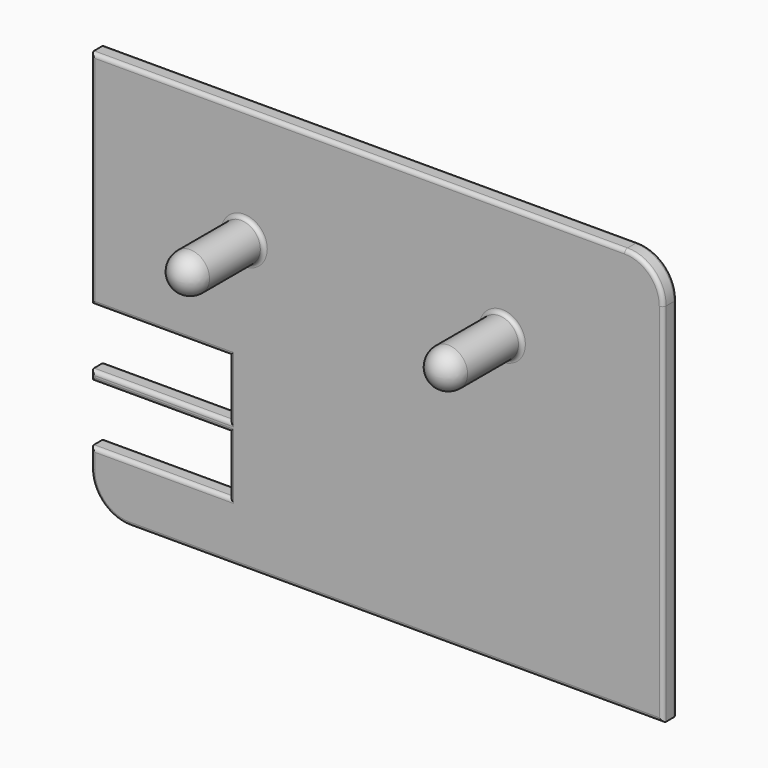
from build123d import *

# Parameters (mm, degrees)
F1_DEPTH = 9
F2_R     = 10
F3_DEPTH = 45
F4_W     = 71.969155259
F4_H     = 30
F5_DEPTH = 25
F6_W     = 71.969155259
F6_H     = 30
F7_DEPTH = 25
F8_R     = 2
F9_R     = 2
F10_R    = 10
F11_R    = 10


with BuildPart() as f1:
    # F0 (on Front) → F1 (new body)
    with BuildSketch(Plane.XZ):
        with BuildLine():
            Line((123.8927025199, 74.8835833272), (-153.1072974801, 74.8835833272))
            Line((-153.1072974801, 74.8835833272), (-153.1072974801, -115.1164166728))
            ThreePointArc((-153.1072974801, -115.1164166728), (-147.2494331038, -129.2585522966), (-133.1072974801, -135.1164166728))
            Line((-133.1072974801, -135.1164166728), (143.8927025199, -135.1164166728))
            Line((143.8927025199, -135.1164166728), (143.8927025199, 54.8835833272))
            ThreePointArc((143.8927025199, 54.8835833272), (138.0348381436, 69.0257189509), (123.8927025199, 74.8835833272))
        make_face()
    extrude(amount=F1_DEPTH)

    # F2 (on face) → F3 (join)
    with BuildSketch(Plane.XZ.offset(9)):
        with Locations((60.3762370774, 14.8835833272)):
            Circle(F2_R)
        with Locations((-73.6063314903, 14.8835833272)):
            Circle(F2_R)
    extrude(amount=F3_DEPTH)

    # F4 (on face) → F5 (cut)
    with BuildSketch(Plane.XZ.offset(9)):
        with Locations((-117.1227198506, -90.1164166728)):
            Rectangle(F4_W, F4_H)
    extrude(amount=-F5_DEPTH, mode=Mode.SUBTRACT)

    # F6 (on face) → F7 (cut)
    with BuildSketch(Plane.XZ.offset(9)):
        with Locations((-117.1227198506, -55.1164166728)):
            Rectangle(F6_W, F6_H)
    extrude(amount=-F7_DEPTH, mode=Mode.SUBTRACT)

    # F8
    f8_edges = [f1.edges().sort_by_distance(p)[0] for p in [
        (143.892703, -9, -40.116417),
        (5.392703, -9, -135.116417),
        (-147.249433, -9, -129.258552),
        (-153.107297, -9, -110.116417),
        (-117.12272, -9, -105.116417),
        (-81.138142, -9, -90.116417),
        (-117.12272, -9, -75.116417),
        (-153.107297, -9, -72.616417),
        (-117.12272, -9, -70.116417),
        (-81.138142, -9, -55.116417),
        (-117.12272, -9, -40.116417),
        (-153.107297, -9, 17.383583),
        (-14.607297, -9, 74.883583),
        (138.034838, -9, 69.025719),
        (-83.606331, -9, 14.883583),
        (50.376237, -9, 14.883583),
    ]]
    fillet(f8_edges, radius=F8_R)

    # F9
    f9_edges = [f1.edges().sort_by_distance(p)[0] for p in [
        (143.892703, 0, -40.116417),
        (5.392703, 0, -135.116417),
        (-147.249433, 0, -129.258552),
        (-153.107297, 0, -110.116417),
        (-117.12272, 0, -105.116417),
        (-81.138142, 0, -90.116417),
        (-117.12272, 0, -75.116417),
        (-153.107297, 0, -72.616417),
        (-117.12272, 0, -70.116417),
        (-81.138142, 0, -55.116417),
        (-117.12272, 0, -40.116417),
        (-153.107297, 0, 17.383583),
        (-14.607297, 0, 74.883583),
        (138.034838, 0, 69.025719),
    ]]
    fillet(f9_edges, radius=F9_R)

    # F10
    f10_edges = [f1.edges().sort_by_distance(p)[0] for p in [
        (-83.606331, -54, 14.883583),
    ]]
    fillet(f10_edges, radius=F10_R)

    # F11
    f11_edges = [f1.edges().sort_by_distance(p)[0] for p in [
        (50.376237, -54, 14.883583),
    ]]
    fillet(f11_edges, radius=F11_R)


solid = f1.part
